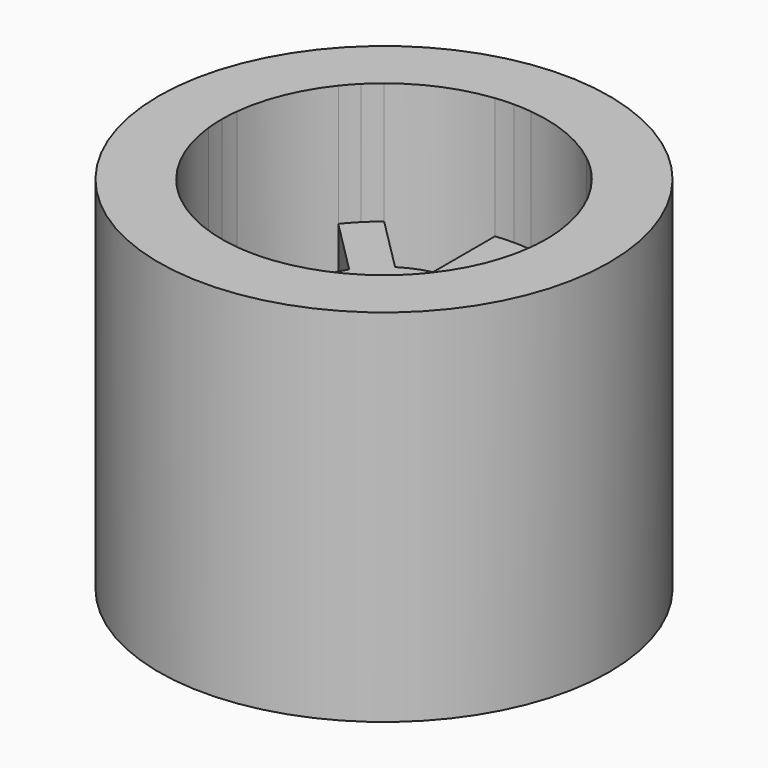
from build123d import *

# Parameters (mm, degrees)
F1_DEPTH = 3.25
F0_R     = 12.5
F2_DEPTH = 10
F3_SIZE  = 0.5


with BuildPart() as f1:
    # F0 (on Top) → F1 (new body, symmetric)
    with BuildSketch(Plane.XY):
        with BuildLine():
            ThreePointArc((-1, 4.6435439053), (0, 4.75), (1, 4.6435439053))
            Line((1, 4.6435439053), (1, 8.94427191))
            ThreePointArc((1, 8.94427191), (0.5007758031, 8.9860571774), (0, 9))
            ThreePointArc((0, 9), (-0.5007758031, 8.9860571774), (-1, 8.94427191))
            Line((-1, 8.94427191), (-1, 4.6435439053))
        make_face()
        with BuildLine():
            ThreePointArc((-0.796638543, 2.2108521054), (0, 2.35), (0.796638543, 2.2108521054))
            Line((0.796638543, 2.2108521054), (1, 2.4142135624))
            Line((1, 2.4142135624), (1, 4.6435439053))
            ThreePointArc((1, 4.6435439053), (0, 4.75), (-1, 4.6435439053))
            Line((-1, 4.6435439053), (-1, 2.4142135624))
            Line((-1, 2.4142135624), (-0.796638543, 2.2108521054))
        make_face()
        with BuildLine():
            ThreePointArc((-1, 2.1266170318), (-0.8993060661, 2.1711169014), (-0.796638543, 2.2108521054))
            Line((-0.796638543, 2.2108521054), (-1, 2.4142135624))
            Line((-1, 2.4142135624), (-1, 2.1266170318))
        make_face()
        with BuildLine():
            ThreePointArc((0.796638543, 2.2108521054), (0.8993060661, 2.1711169014), (1, 2.1266170318))
            Line((1, 2.1266170318), (1, 2.4142135624))
            Line((1, 2.4142135624), (0.796638543, 2.2108521054))
        make_face()
        with BuildLine():
            ThreePointArc((1, 2.1266170318), (1.6617009358, 1.6617009358), (2.1266170318, 1))
            Line((2.1266170318, 1), (2.4142135624, 1))
            Line((2.4142135624, 1), (3.9905881653, 2.576374603))
            ThreePointArc((3.9905881653, 2.576374603), (3.3587572106, 3.3587572106), (2.576374603, 3.9905881653))
            Line((2.576374603, 3.9905881653), (1, 2.4142135624))
            Line((1, 2.4142135624), (1, 2.1266170318))
        make_face()
        with BuildLine():
            ThreePointArc((2.2108521054, 0.796638543), (2.3149516677, 0.4043498191), (2.35, 0))
            ThreePointArc((2.35, 0), (2.3149516677, -0.4043498191), (2.2108521054, -0.796638543))
            Line((2.2108521054, -0.796638543), (2.4142135624, -1))
            Line((2.4142135624, -1), (4.6435439053, -1))
            ThreePointArc((4.6435439053, -1), (4.7233109971, -0.502825243), (4.75, 0))
            ThreePointArc((4.75, 0), (4.7233109971, 0.502825243), (4.6435439053, 1))
            Line((4.6435439053, 1), (2.4142135624, 1))
            Line((2.4142135624, 1), (2.2108521054, 0.796638543))
        make_face()
        with BuildLine():
            ThreePointArc((2.1266170318, 1), (2.1711169014, 0.8993060661), (2.2108521054, 0.796638543))
            Line((2.2108521054, 0.796638543), (2.4142135624, 1))
            Line((2.4142135624, 1), (2.1266170318, 1))
        make_face()
        with BuildLine():
            Line((2.4142135624, -1), (2.1266170318, -1))
            ThreePointArc((2.1266170318, -1), (1.6617009358, -1.6617009358), (1, -2.1266170318))
            Line((1, -2.1266170318), (1, -2.4142135624))
            Line((1, -2.4142135624), (2.576374603, -3.9905881653))
            ThreePointArc((2.576374603, -3.9905881653), (3.3587572106, -3.3587572106), (3.9905881653, -2.576374603))
            Line((3.9905881653, -2.576374603), (2.4142135624, -1))
        make_face()
        with BuildLine():
            Line((2.4142135624, -1), (2.2108521054, -0.796638543))
            ThreePointArc((2.2108521054, -0.796638543), (2.1711169014, -0.8993060661), (2.1266170318, -1))
            Line((2.1266170318, -1), (2.4142135624, -1))
        make_face()
        with BuildLine():
            Line((1, -2.4142135624), (1, -2.1266170318))
            ThreePointArc((1, -2.1266170318), (0.8993060661, -2.1711169014), (0.796638543, -2.2108521054))
            Line((0.796638543, -2.2108521054), (1, -2.4142135624))
        make_face()
        with BuildLine():
            ThreePointArc((-2.1266170318, 1), (-1.6617009358, 1.6617009358), (-1, 2.1266170318))
            Line((-1, 2.1266170318), (-1, 2.4142135624))
            Line((-1, 2.4142135624), (-2.576374603, 3.9905881653))
            ThreePointArc((-2.576374603, 3.9905881653), (-3.3587572106, 3.3587572106), (-3.9905881653, 2.576374603))
            Line((-3.9905881653, 2.576374603), (-2.4142135624, 1))
            Line((-2.4142135624, 1), (-2.1266170318, 1))
        make_face()
        with BuildLine():
            ThreePointArc((-2.2108521054, -0.796638543), (-2.35, 0), (-2.2108521054, 0.796638543))
            Line((-2.2108521054, 0.796638543), (-2.4142135624, 1))
            Line((-2.4142135624, 1), (-4.6435439053, 1))
            ThreePointArc((-4.6435439053, 1), (-4.75, 0), (-4.6435439053, -1))
            Line((-4.6435439053, -1), (-2.4142135624, -1))
            Line((-2.4142135624, -1), (-2.2108521054, -0.796638543))
        make_face()
        with BuildLine():
            Line((-1, -2.4142135624), (-1, -2.1266170318))
            ThreePointArc((-1, -2.1266170318), (-1.6617009358, -1.6617009358), (-2.1266170318, -1))
            Line((-2.1266170318, -1), (-2.4142135624, -1))
            Line((-2.4142135624, -1), (-3.9905881653, -2.576374603))
            ThreePointArc((-3.9905881653, -2.576374603), (-3.3587572106, -3.3587572106), (-2.576374603, -3.9905881653))
            Line((-2.576374603, -3.9905881653), (-1, -2.4142135624))
        make_face()
        with BuildLine():
            ThreePointArc((-2.2108521054, 0.796638543), (-2.1711169014, 0.8993060661), (-2.1266170318, 1))
            Line((-2.1266170318, 1), (-2.4142135624, 1))
            Line((-2.4142135624, 1), (-2.2108521054, 0.796638543))
        make_face()
        with BuildLine():
            Line((-2.4142135624, -1), (-2.1266170318, -1))
            ThreePointArc((-2.1266170318, -1), (-2.1711169014, -0.8993060661), (-2.2108521054, -0.796638543))
            Line((-2.2108521054, -0.796638543), (-2.4142135624, -1))
        make_face()
        with BuildLine():
            Line((-1, -2.4142135624), (-0.796638543, -2.2108521054))
            ThreePointArc((-0.796638543, -2.2108521054), (-0.8993060661, -2.1711169014), (-1, -2.1266170318))
            Line((-1, -2.1266170318), (-1, -2.4142135624))
        make_face()
        with BuildLine():
            Line((1, -2.4142135624), (0.796638543, -2.2108521054))
            ThreePointArc((0.796638543, -2.2108521054), (0, -2.35), (-0.796638543, -2.2108521054))
            Line((-0.796638543, -2.2108521054), (-1, -2.4142135624))
            Line((-1, -2.4142135624), (-1, -4.6435439053))
            ThreePointArc((-1, -4.6435439053), (0, -4.75), (1, -4.6435439053))
            Line((1, -4.6435439053), (1, -2.4142135624))
        make_face()
        with BuildLine():
            ThreePointArc((2.576374603, 3.9905881653), (3.3587572106, 3.3587572106), (3.9905881653, 2.576374603))
            Line((3.9905881653, 2.576374603), (7.0316621015, 5.6174485392))
            ThreePointArc((7.0316621015, 5.6174485392), (6.7082039325, 6), (6.3639610307, 6.3639610307))
            ThreePointArc((6.3639610307, 6.3639610307), (6, 6.7082039325), (5.6174485392, 7.0316621015))
            Line((5.6174485392, 7.0316621015), (2.576374603, 3.9905881653))
        make_face()
        with BuildLine():
            Line((8.94427191, 1), (4.6435439053, 1))
            ThreePointArc((4.6435439053, 1), (4.7233109971, 0.502825243), (4.75, 0))
            ThreePointArc((4.75, 0), (4.7233109971, -0.502825243), (4.6435439053, -1))
            Line((4.6435439053, -1), (8.94427191, -1))
            ThreePointArc((8.94427191, -1), (8.9860571774, -0.5007758031), (9, 0))
            ThreePointArc((9, 0), (8.9860571774, 0.5007758031), (8.94427191, 1))
        make_face()
        with BuildLine():
            Line((7.0316621015, -5.6174485392), (3.9905881653, -2.576374603))
            ThreePointArc((3.9905881653, -2.576374603), (3.3587572106, -3.3587572106), (2.576374603, -3.9905881653))
            Line((2.576374603, -3.9905881653), (5.6174485392, -7.0316621015))
            ThreePointArc((5.6174485392, -7.0316621015), (5.9999999942, -6.7082039377), (6.3639610196, -6.3639610417))
            ThreePointArc((6.3639610196, -6.3639610417), (6.7082039273, -6.0000000058), (7.0316621015, -5.6174485392))
        make_face()
        with BuildLine():
            Line((1, -8.94427191), (1, -4.6435439053))
            ThreePointArc((1, -4.6435439053), (0, -4.75), (-1, -4.6435439053))
            Line((-1, -4.6435439053), (-1, -8.94427191))
            ThreePointArc((-1, -8.94427191), (-0.5007758031, -8.9860571774), (0, -9))
            ThreePointArc((0, -9), (0.5007758031, -8.9860571774), (1, -8.94427191))
        make_face()
        with BuildLine():
            Line((-5.6174485392, -7.0316621015), (-2.576374603, -3.9905881653))
            ThreePointArc((-2.576374603, -3.9905881653), (-3.3587572106, -3.3587572106), (-3.9905881653, -2.576374603))
            Line((-3.9905881653, -2.576374603), (-7.0316621015, -5.6174485392))
            ThreePointArc((-7.0316621015, -5.6174485392), (-6.7082039325, -6), (-6.3639610307, -6.3639610307))
            ThreePointArc((-6.3639610307, -6.3639610307), (-6, -6.7082039325), (-5.6174485392, -7.0316621015))
        make_face()
        with BuildLine():
            ThreePointArc((-4.6435439053, -1), (-4.75, 0), (-4.6435439053, 1))
            Line((-4.6435439053, 1), (-8.94427191, 1))
            ThreePointArc((-8.94427191, 1), (-8.9860571774, 0.5007758031), (-9, 0))
            ThreePointArc((-9, 0), (-8.9860571774, -0.5007758031), (-8.94427191, -1))
            Line((-8.94427191, -1), (-4.6435439053, -1))
        make_face()
        with BuildLine():
            ThreePointArc((-3.9905881653, 2.576374603), (-3.3587572106, 3.3587572106), (-2.576374603, 3.9905881653))
            Line((-2.576374603, 3.9905881653), (-5.6174485392, 7.0316621015))
            ThreePointArc((-5.6174485392, 7.0316621015), (-6.0000000003, 6.7082039322), (-6.3639610313, 6.3639610301))
            ThreePointArc((-6.3639610313, 6.3639610301), (-6.7082039328, 5.9999999997), (-7.0316621015, 5.6174485392))
            Line((-7.0316621015, 5.6174485392), (-3.9905881653, 2.576374603))
        make_face()
        with BuildLine():
            Line((1, 4.6435439053), (1, 2.4142135624))
            Line((1, 2.4142135624), (2.576374603, 3.9905881653))
            ThreePointArc((2.576374603, 3.9905881653), (1.8177463037, 4.3884277794), (1, 4.6435439053))
        make_face()
        with BuildLine():
            Line((3.9905881653, 2.576374603), (2.4142135624, 1))
            Line((2.4142135624, 1), (4.6435439053, 1))
            ThreePointArc((4.6435439053, 1), (4.3884277794, 1.8177463037), (3.9905881653, 2.576374603))
        make_face()
        with BuildLine():
            Line((4.6435439053, -1), (2.4142135624, -1))
            Line((2.4142135624, -1), (3.9905881653, -2.576374603))
            ThreePointArc((3.9905881653, -2.576374603), (4.3884277794, -1.8177463037), (4.6435439053, -1))
        make_face()
        with BuildLine():
            Line((2.576374603, -3.9905881653), (1, -2.4142135624))
            Line((1, -2.4142135624), (1, -4.6435439053))
            ThreePointArc((1, -4.6435439053), (1.8177463037, -4.3884277794), (2.576374603, -3.9905881653))
        make_face()
        with BuildLine():
            Line((-1, -4.6435439053), (-1, -2.4142135624))
            Line((-1, -2.4142135624), (-2.576374603, -3.9905881653))
            ThreePointArc((-2.576374603, -3.9905881653), (-1.8177463037, -4.3884277794), (-1, -4.6435439053))
        make_face()
        with BuildLine():
            Line((-3.9905881653, -2.576374603), (-2.4142135624, -1))
            Line((-2.4142135624, -1), (-4.6435439053, -1))
            ThreePointArc((-4.6435439053, -1), (-4.3884277794, -1.8177463037), (-3.9905881653, -2.576374603))
        make_face()
        with BuildLine():
            Line((-4.6435439053, 1), (-2.4142135624, 1))
            Line((-2.4142135624, 1), (-3.9905881653, 2.576374603))
            ThreePointArc((-3.9905881653, 2.576374603), (-4.3884277794, 1.8177463037), (-4.6435439053, 1))
        make_face()
        with BuildLine():
            Line((-2.576374603, 3.9905881653), (-1, 2.4142135624))
            Line((-1, 2.4142135624), (-1, 4.6435439053))
            ThreePointArc((-1, 4.6435439053), (-1.8177463037, 4.3884277794), (-2.576374603, 3.9905881653))
        make_face()
        with BuildLine():
            ThreePointArc((-9, 0), (-8.9860571774, 0.5007758031), (-8.94427191, 1))
            Line((-8.94427191, 1), (-9, 1))
            Line((-9, 1), (-9, 0))
        make_face()
        with BuildLine():
            Line((-9, -1), (-8.94427191, -1))
            ThreePointArc((-8.94427191, -1), (-8.9860571774, -0.5007758031), (-9, 0))
            Line((-9, 0), (-9, -1))
        make_face()
        with BuildLine():
            ThreePointArc((-6.3639610307, -6.3639610307), (-6.7082039325, -6), (-7.0316621015, -5.6174485392))
            Line((-7.0316621015, -5.6174485392), (-7.0710678119, -5.6568542495))
            Line((-7.0710678119, -5.6568542495), (-6.3639610307, -6.3639610307))
        make_face()
        with BuildLine():
            Line((-5.6568542495, -7.0710678119), (-5.6174485392, -7.0316621015))
            ThreePointArc((-5.6174485392, -7.0316621015), (-6, -6.7082039325), (-6.3639610307, -6.3639610307))
            Line((-6.3639610307, -6.3639610307), (-5.6568542495, -7.0710678119))
        make_face()
        with BuildLine():
            Line((1, -9), (1, -8.94427191))
            ThreePointArc((1, -8.94427191), (0.5007758031, -8.9860571774), (0, -9))
            Line((0, -9), (1, -9))
        make_face()
        with BuildLine():
            ThreePointArc((0, -9), (-0.5007758031, -8.9860571774), (-1, -8.94427191))
            Line((-1, -8.94427191), (-1, -9))
            Line((-1, -9), (0, -9))
        make_face()
        with BuildLine():
            Line((7.0710678119, -5.6568542495), (7.0316621015, -5.6174485392))
            ThreePointArc((7.0316621015, -5.6174485392), (6.7082039273, -6.0000000058), (6.3639610196, -6.3639610417))
            Line((6.3639610196, -6.3639610417), (7.0710678119, -5.6568542495))
        make_face()
        with BuildLine():
            ThreePointArc((6.3639610196, -6.3639610417), (5.9999999942, -6.7082039377), (5.6174485392, -7.0316621015))
            Line((5.6174485392, -7.0316621015), (5.6568542495, -7.0710678119))
            Line((5.6568542495, -7.0710678119), (6.3639610196, -6.3639610417))
        make_face()
        with BuildLine():
            Line((9, 1), (8.94427191, 1))
            ThreePointArc((8.94427191, 1), (8.9860571774, 0.5007758031), (9, 0))
            Line((9, 0), (9, 1))
        make_face()
        with BuildLine():
            ThreePointArc((9, 0), (8.9860571774, -0.5007758031), (8.94427191, -1))
            Line((8.94427191, -1), (9, -1))
            Line((9, -1), (9, 0))
        make_face()
        with BuildLine():
            Line((5.6568542495, 7.0710678119), (5.6174485392, 7.0316621015))
            ThreePointArc((5.6174485392, 7.0316621015), (6, 6.7082039325), (6.3639610307, 6.3639610307))
            Line((6.3639610307, 6.3639610307), (5.6568542495, 7.0710678119))
        make_face()
        with BuildLine():
            ThreePointArc((6.3639610307, 6.3639610307), (6.7082039325, 6), (7.0316621015, 5.6174485392))
            Line((7.0316621015, 5.6174485392), (7.0710678119, 5.6568542495))
            Line((7.0710678119, 5.6568542495), (6.3639610307, 6.3639610307))
        make_face()
        with BuildLine():
            ThreePointArc((0, 9), (0.5007758031, 8.9860571774), (1, 8.94427191))
            Line((1, 8.94427191), (1, 9))
            Line((1, 9), (0, 9))
        make_face()
        with BuildLine():
            Line((-1, 9), (-1, 8.94427191))
            ThreePointArc((-1, 8.94427191), (-0.5007758031, 8.9860571774), (0, 9))
            Line((0, 9), (-1, 9))
        make_face()
        with BuildLine():
            ThreePointArc((-6.3639610313, 6.3639610301), (-6.0000000003, 6.7082039322), (-5.6174485392, 7.0316621015))
            Line((-5.6174485392, 7.0316621015), (-5.6568542495, 7.0710678119))
            Line((-5.6568542495, 7.0710678119), (-6.3639610313, 6.3639610301))
        make_face()
        with BuildLine():
            Line((-7.0710678119, 5.6568542495), (-7.0316621015, 5.6174485392))
            ThreePointArc((-7.0316621015, 5.6174485392), (-6.7082039328, 5.9999999997), (-6.3639610313, 6.3639610301))
            Line((-6.3639610313, 6.3639610301), (-7.0710678119, 5.6568542495))
        make_face()
    extrude(amount=F1_DEPTH, both=True)

    # F0 (on Top) → F2 (join, symmetric)
    with BuildSketch(Plane.XY):
        Circle(F0_R)
        with BuildLine():
            ThreePointArc((7.0316621015, 5.6174485392), (8.3149157926, 3.4441508913), (8.94427191, 1))
            Line((8.94427191, 1), (9, 1))
            Line((9, 1), (9, 0))
            Line((9, 0), (9, -1))
            Line((9, -1), (8.94427191, -1))
            ThreePointArc((8.94427191, -1), (8.3149157926, -3.4441508913), (7.0316621015, -5.6174485392))
            Line((7.0316621015, -5.6174485392), (7.0710678119, -5.6568542495))
            Line((7.0710678119, -5.6568542495), (6.3639610196, -6.3639610417))
            Line((6.3639610196, -6.3639610417), (5.6568542495, -7.0710678119))
            Line((5.6568542495, -7.0710678119), (5.6174485392, -7.0316621015))
            ThreePointArc((5.6174485392, -7.0316621015), (3.4441508913, -8.3149157926), (1, -8.94427191))
            Line((1, -8.94427191), (1, -9))
            Line((1, -9), (0, -9))
            Line((0, -9), (-1, -9))
            Line((-1, -9), (-1, -8.94427191))
            ThreePointArc((-1, -8.94427191), (-3.4441508913, -8.3149157926), (-5.6174485392, -7.0316621015))
            Line((-5.6174485392, -7.0316621015), (-5.6568542495, -7.0710678119))
            Line((-5.6568542495, -7.0710678119), (-6.3639610307, -6.3639610307))
            Line((-6.3639610307, -6.3639610307), (-7.0710678119, -5.6568542495))
            Line((-7.0710678119, -5.6568542495), (-7.0316621015, -5.6174485392))
            ThreePointArc((-7.0316621015, -5.6174485392), (-8.3149157926, -3.4441508913), (-8.94427191, -1))
            Line((-8.94427191, -1), (-9, -1))
            Line((-9, -1), (-9, 0))
            Line((-9, 0), (-9, 1))
            Line((-9, 1), (-8.94427191, 1))
            ThreePointArc((-8.94427191, 1), (-8.3149157926, 3.4441508913), (-7.0316621015, 5.6174485392))
            Line((-7.0316621015, 5.6174485392), (-7.0710678119, 5.6568542495))
            Line((-7.0710678119, 5.6568542495), (-6.3639610313, 6.3639610301))
            Line((-6.3639610313, 6.3639610301), (-5.6568542495, 7.0710678119))
            Line((-5.6568542495, 7.0710678119), (-5.6174485392, 7.0316621015))
            ThreePointArc((-5.6174485392, 7.0316621015), (-3.4441508913, 8.3149157926), (-1, 8.94427191))
            Line((-1, 8.94427191), (-1, 9))
            Line((-1, 9), (0, 9))
            Line((0, 9), (1, 9))
            Line((1, 9), (1, 8.94427191))
            ThreePointArc((1, 8.94427191), (3.4441508913, 8.3149157926), (5.6174485392, 7.0316621015))
            Line((5.6174485392, 7.0316621015), (5.6568542495, 7.0710678119))
            Line((5.6568542495, 7.0710678119), (6.3639610307, 6.3639610307))
            Line((6.3639610307, 6.3639610307), (7.0710678119, 5.6568542495))
            Line((7.0710678119, 5.6568542495), (7.0316621015, 5.6174485392))
        make_face(mode=Mode.SUBTRACT)
        with BuildLine():
            Line((-1, 9), (-1, 8.94427191))
            ThreePointArc((-1, 8.94427191), (-0.5007758031, 8.9860571774), (0, 9))
            Line((0, 9), (-1, 9))
        make_face()
        with BuildLine():
            ThreePointArc((0, 9), (0.5007758031, 8.9860571774), (1, 8.94427191))
            Line((1, 8.94427191), (1, 9))
            Line((1, 9), (0, 9))
        make_face()
        with BuildLine():
            ThreePointArc((-6.3639610313, 6.3639610301), (-6.0000000003, 6.7082039322), (-5.6174485392, 7.0316621015))
            Line((-5.6174485392, 7.0316621015), (-5.6568542495, 7.0710678119))
            Line((-5.6568542495, 7.0710678119), (-6.3639610313, 6.3639610301))
        make_face()
        with BuildLine():
            Line((-7.0710678119, 5.6568542495), (-7.0316621015, 5.6174485392))
            ThreePointArc((-7.0316621015, 5.6174485392), (-6.7082039328, 5.9999999997), (-6.3639610313, 6.3639610301))
            Line((-6.3639610313, 6.3639610301), (-7.0710678119, 5.6568542495))
        make_face()
        with BuildLine():
            ThreePointArc((0, -9), (-0.5007758031, -8.9860571774), (-1, -8.94427191))
            Line((-1, -8.94427191), (-1, -9))
            Line((-1, -9), (0, -9))
        make_face()
        with BuildLine():
            Line((1, -9), (1, -8.94427191))
            ThreePointArc((1, -8.94427191), (0.5007758031, -8.9860571774), (0, -9))
            Line((0, -9), (1, -9))
        make_face()
        with BuildLine():
            Line((-5.6568542495, -7.0710678119), (-5.6174485392, -7.0316621015))
            ThreePointArc((-5.6174485392, -7.0316621015), (-6, -6.7082039325), (-6.3639610307, -6.3639610307))
            Line((-6.3639610307, -6.3639610307), (-5.6568542495, -7.0710678119))
        make_face()
        with BuildLine():
            ThreePointArc((-6.3639610307, -6.3639610307), (-6.7082039325, -6), (-7.0316621015, -5.6174485392))
            Line((-7.0316621015, -5.6174485392), (-7.0710678119, -5.6568542495))
            Line((-7.0710678119, -5.6568542495), (-6.3639610307, -6.3639610307))
        make_face()
        with BuildLine():
            Line((-9, -1), (-8.94427191, -1))
            ThreePointArc((-8.94427191, -1), (-8.9860571774, -0.5007758031), (-9, 0))
            Line((-9, 0), (-9, -1))
        make_face()
        with BuildLine():
            ThreePointArc((-9, 0), (-8.9860571774, 0.5007758031), (-8.94427191, 1))
            Line((-8.94427191, 1), (-9, 1))
            Line((-9, 1), (-9, 0))
        make_face()
        with BuildLine():
            Line((5.6568542495, 7.0710678119), (5.6174485392, 7.0316621015))
            ThreePointArc((5.6174485392, 7.0316621015), (6, 6.7082039325), (6.3639610307, 6.3639610307))
            Line((6.3639610307, 6.3639610307), (5.6568542495, 7.0710678119))
        make_face()
        with BuildLine():
            ThreePointArc((6.3639610307, 6.3639610307), (6.7082039325, 6), (7.0316621015, 5.6174485392))
            Line((7.0316621015, 5.6174485392), (7.0710678119, 5.6568542495))
            Line((7.0710678119, 5.6568542495), (6.3639610307, 6.3639610307))
        make_face()
        with BuildLine():
            Line((9, 1), (8.94427191, 1))
            ThreePointArc((8.94427191, 1), (8.9860571774, 0.5007758031), (9, 0))
            Line((9, 0), (9, 1))
        make_face()
        with BuildLine():
            ThreePointArc((9, 0), (8.9860571774, -0.5007758031), (8.94427191, -1))
            Line((8.94427191, -1), (9, -1))
            Line((9, -1), (9, 0))
        make_face()
        with BuildLine():
            Line((7.0710678119, -5.6568542495), (7.0316621015, -5.6174485392))
            ThreePointArc((7.0316621015, -5.6174485392), (6.7082039273, -6.0000000058), (6.3639610196, -6.3639610417))
            Line((6.3639610196, -6.3639610417), (7.0710678119, -5.6568542495))
        make_face()
        with BuildLine():
            ThreePointArc((6.3639610196, -6.3639610417), (5.9999999942, -6.7082039377), (5.6174485392, -7.0316621015))
            Line((5.6174485392, -7.0316621015), (5.6568542495, -7.0710678119))
            Line((5.6568542495, -7.0710678119), (6.3639610196, -6.3639610417))
        make_face()
    extrude(amount=F2_DEPTH, both=True)

    # F3
    f3_edges = [f1.edges().sort_by_distance(p)[0] for p in [
        (-0.796639, 2.210852, 3.25),
    ]]
    chamfer(f3_edges, length=F3_SIZE)


solid = f1.part
